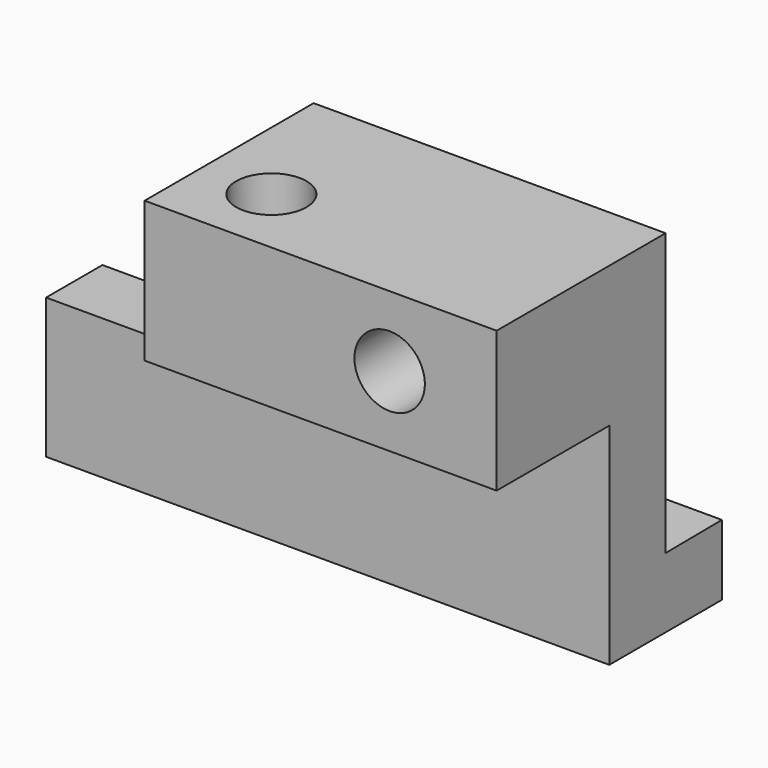
from build123d import *

# Parameters (mm, degrees)
F0_W     = 19.05
F0_H     = 12.7
F1_DEPTH = 31.75
F2_W     = 6.35
F2_H     = 6.35
F3_DEPTH = 31.75
F5_DEPTH = 50.8
F6_R     = 3.175
F7_DEPTH = 31.697754
F8_R     = 3.175
F9_DEPTH = 25.4


with BuildPart() as f1:
    # F0 (on Right) → F1 (new body)
    with BuildSketch(Plane.YZ):
        with Locations((9.525, -6.35)):
            Rectangle(F0_W, F0_H)
    extrude(amount=F1_DEPTH)

    # F2 (on face) → F3 (join)
    with BuildSketch(Plane.YZ.offset(31.75)):
        with Locations((15.875, -15.875)):
            Rectangle(F2_W, F2_H)
    extrude(amount=-F3_DEPTH)

    # F4 (on face) → F5 (join)
    with BuildSketch(Plane.YZ.offset(31.75)):
        Polygon((19.05, -19.05), (12.7, -19.05), (12.7, -31.696754), (25.4, -31.696754), (25.4, -25.346754), (19.05, -25.4), align=None)
    extrude(amount=-F5_DEPTH)

    # F6 (on face) → F7 (cut, through all)
    with BuildSketch(Plane.XY):
        with Locations((6.35, 6.35)):
            Circle(F6_R)
    extrude(amount=-F7_DEPTH, mode=Mode.SUBTRACT)

    # F8 (on face) → F9 (cut)
    with BuildSketch(Plane(origin=(0, 19.05, 0), x_dir=(-1, 0, 0), z_dir=(0, 1, 0))):
        with Locations((-22.098, -6.35)):
            Circle(F8_R)
    extrude(amount=-F9_DEPTH, mode=Mode.SUBTRACT)


solid = f1.part
